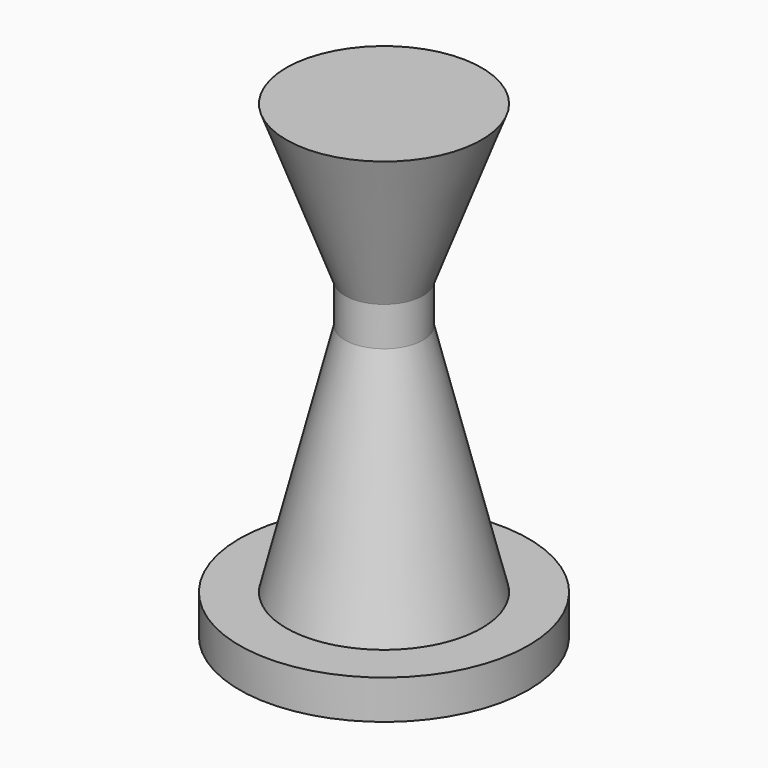
from build123d import *

# Parameters (mm, degrees)
F0_W     = 5
F0_H     = 1.25
F0_H_2   = 2.5
F2_R     = 18.5
F2_R_2   = 12.5
F3_DEPTH = 5
F4_DEPTH = 5


with BuildPart() as f1:
    # F0 (on Front) → F1 (revolve)
    with BuildSketch(Plane.XZ):
        Polygon((25.11136204, 9.8067230731), (17.61136204, -20.1932769269), (30.11136204, -20.1932769269), (30.11136204, 9.8067230731), align=None)
        Polygon((17.61136204, 34.8067230731), (25.11136204, 14.8067230731), (30.11136204, 14.8067230731), (30.11136204, 34.8067230731), align=None)
        with Locations((27.61136204, 10.4317230731)):
            Rectangle(F0_W, F0_H)
        with Locations((27.61136204, 12.3067230731)):
            Rectangle(F0_W, F0_H_2)
        with Locations((27.61136204, 14.1817230731)):
            Rectangle(F0_W, F0_H)
    revolve(axis=Axis((30.11136204, 0, 14.1817230731), (0, 0, -1)))


with BuildPart() as f3:
    # F2 (on face) → F3 (new body)
    with BuildSketch(Plane(origin=(0, 0, -20.1932769269), x_dir=(1, 0, 0), z_dir=(0, 0, -1))):
        with Locations((30.11136204, 0)):
            Circle(F2_R)
        with Locations((30.11136204, 0)):
            Circle(F2_R_2, mode=Mode.SUBTRACT)
    extrude(amount=F3_DEPTH)


with BuildPart() as f4:
    # F4 (new): a face of the model
    f4_faces = [f1.part.faces().sort_by_distance(p)[0] for p in [
        (30.11136204, 0, -20.1932769269),
    ]]
    extrude(f4_faces, amount=F4_DEPTH)


solid = Compound([f1.part, f3.part, f4.part])
